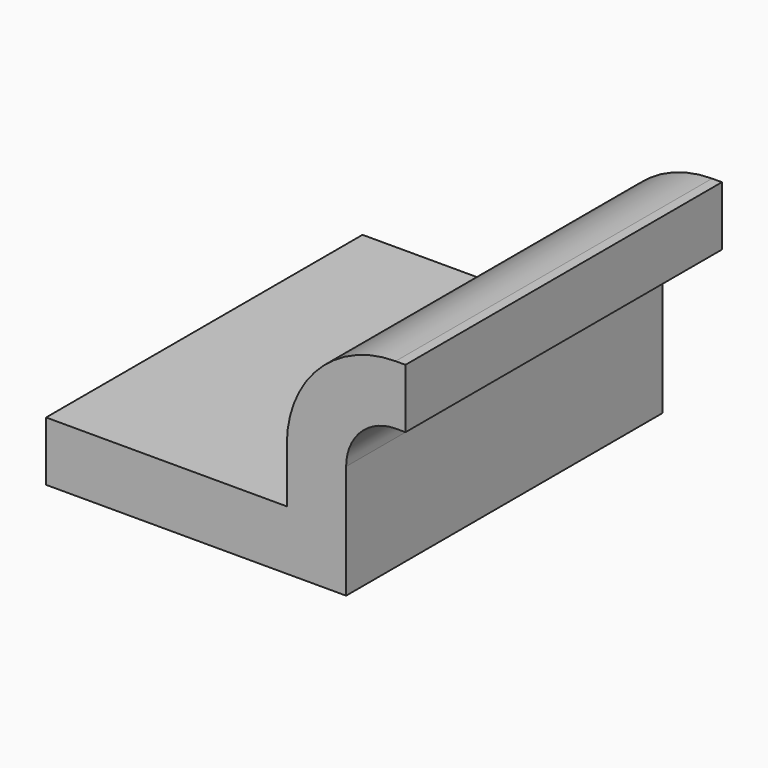
from build123d import *

# Parameters (mm, degrees)
F1_DEPTH = 63.5


with BuildPart() as f1:
    # F0 (on Front) → F1 (new body, symmetric)
    with BuildSketch(Plane.XZ):
        Polygon((-48.172109, -9.525), (48.172109, -9.525), (48.172109, 9.525), (29.122109, 9.525), (-48.172109, 9.525), align=None)
        with BuildLine():
            Line((67.222109, 61.9252), (64.047109, 61.9252))
            ThreePointArc((64.047109, 61.9252), (39.351404, 51.695904), (29.122109, 27.0002))
            Line((29.122109, 27.0002), (29.122109, 9.525))
            Line((29.122109, 9.525), (48.172109, 9.525))
            Line((48.172109, 9.525), (48.172109, 27.0002))
            ThreePointArc((48.172109, 27.0002), (52.821789, 38.22552), (64.047109, 42.8752))
            Line((64.047109, 42.8752), (67.222109, 42.8752))
            Line((67.222109, 42.8752), (67.222109, 61.9252))
        make_face()
    extrude(amount=F1_DEPTH, both=True)


solid = f1.part
